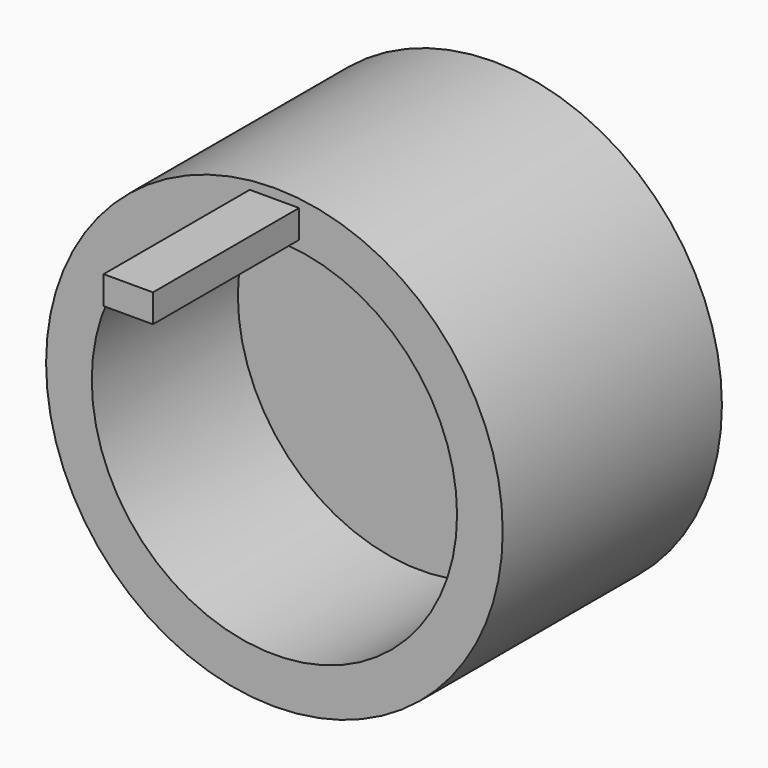
from build123d import *

# Parameters (mm, degrees)
F0_R     = 63.5
F0_R_2   = 50.8
F0_W     = 13.716
F0_H     = 7.8232
F1_DEPTH = 76.2
F2_DEPTH = 25.4
F3_DEPTH = 127


with BuildPart() as f1:
    # F0 (on Front) → F1 (new body)
    with BuildSketch(Plane.XZ):
        Circle(F0_R)
        Circle(F0_R_2, mode=Mode.SUBTRACT)
        with Locations((0, 56.898177)):
            Rectangle(F0_W, F0_H, mode=Mode.SUBTRACT)
    extrude(amount=F1_DEPTH)

    # F0 (on Front) → F2 (join)
    with BuildSketch(Plane.XZ):
        Circle(F0_R_2)
    extrude(amount=F2_DEPTH)

    # F0 (on Front) → F3 (join)
    with BuildSketch(Plane.XZ):
        with Locations((0, 56.898177)):
            Rectangle(F0_W, F0_H)
    extrude(amount=F3_DEPTH)


solid = f1.part
